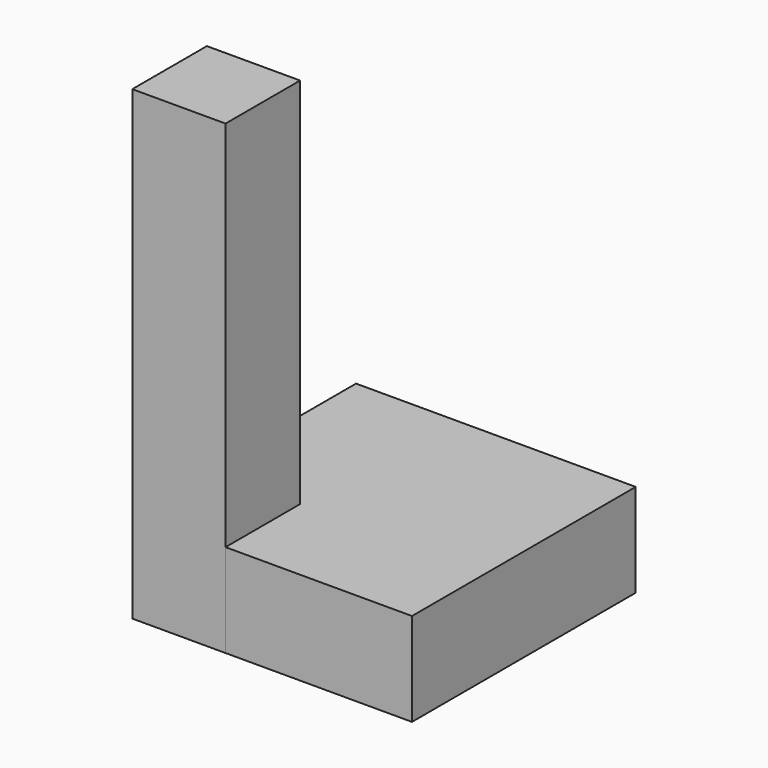
from build123d import *

# Parameters (mm, degrees)
BOX_W        = 30
BOX_H        = 30
BOX_DEPTH    = 10
BOX001_W     = 10
BOX001_H     = 10
BOX001_DEPTH = 50


with BuildPart() as base:
    # Box → Box (new body)
    with BuildSketch(Plane.XY):
        with Locations((15, 15)):
            Rectangle(BOX_W, BOX_H)
    extrude(amount=BOX_DEPTH)


with BuildPart() as pillar:
    # Box001 → Box001 (new body)
    with BuildSketch(Plane.XY):
        with Locations((5, 5)):
            Rectangle(BOX001_W, BOX001_H)
    extrude(amount=BOX001_DEPTH)


solid = Compound([base.part, pillar.part])
